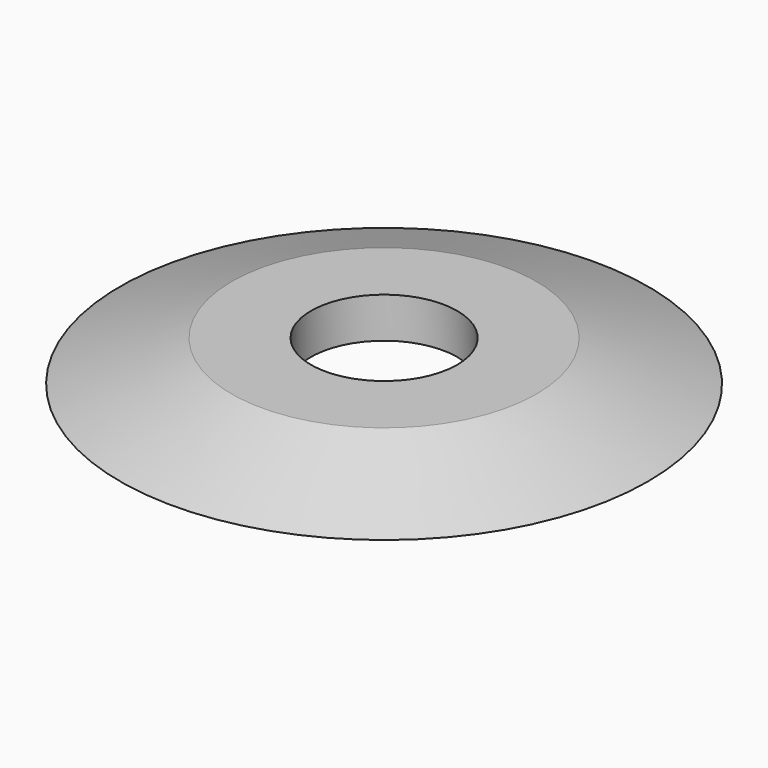
from build123d import *

# Parameters (mm, degrees)
F0_R     = 6.5
F1_DEPTH = 1
F1_TAPER = 70
F2_R     = 1.8
F3_DEPTH = 25


with BuildPart() as f1:
    # F0 (on Top) → F1 (new body)
    with BuildSketch(Plane.XY):
        Circle(F0_R)
    extrude(amount=F1_DEPTH, taper=F1_TAPER)

    # F2 (on face) → F3 (cut)
    with BuildSketch(Plane.XY.offset(1)):
        Circle(F2_R)
    extrude(amount=-F3_DEPTH, mode=Mode.SUBTRACT)


solid = f1.part
